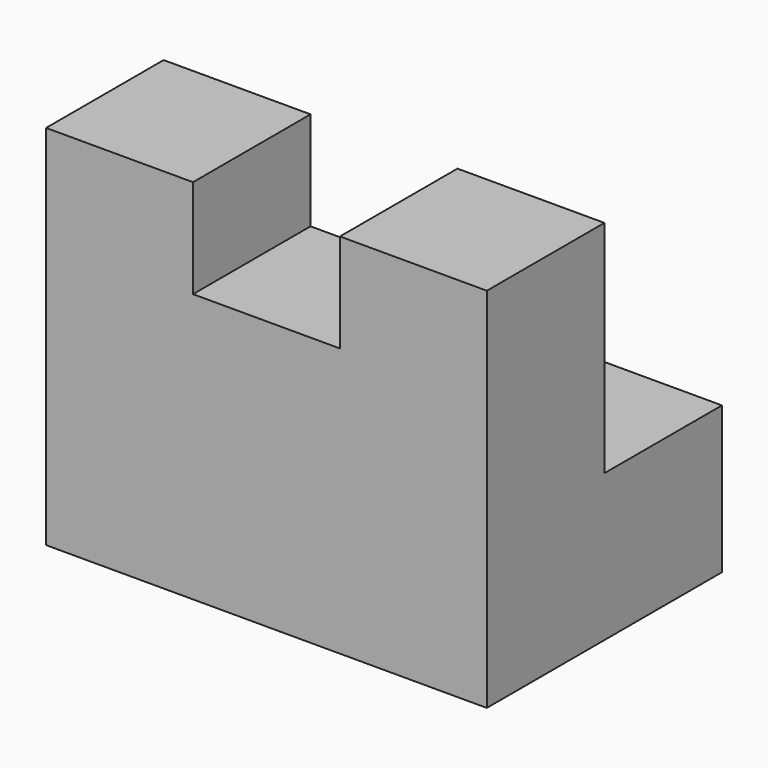
from build123d import *

# Parameters (mm, degrees)
F1_DEPTH = 12.7
F2_W     = 38.1
F2_H     = 12.7
F3_DEPTH = 12.7


with BuildPart() as f1:
    # F0 (on Front) → F1 (new body)
    with BuildSketch(Plane.XZ):
        Polygon((0, 31.75), (0, 0), (38.1, 0), (38.1, 31.75), (25.4, 31.75), (25.4, 23.227736), (12.7, 23.227736), (12.7, 31.75), align=None)
    extrude(amount=F1_DEPTH)

    # F2 (on face) → F3 (join)
    with BuildSketch(Plane(origin=(0, 0, 0), x_dir=(-1, 0, 0), z_dir=(0, 1, 0))):
        with Locations((-19.05, 6.35)):
            Rectangle(F2_W, F2_H)
    extrude(amount=F3_DEPTH)


solid = f1.part
